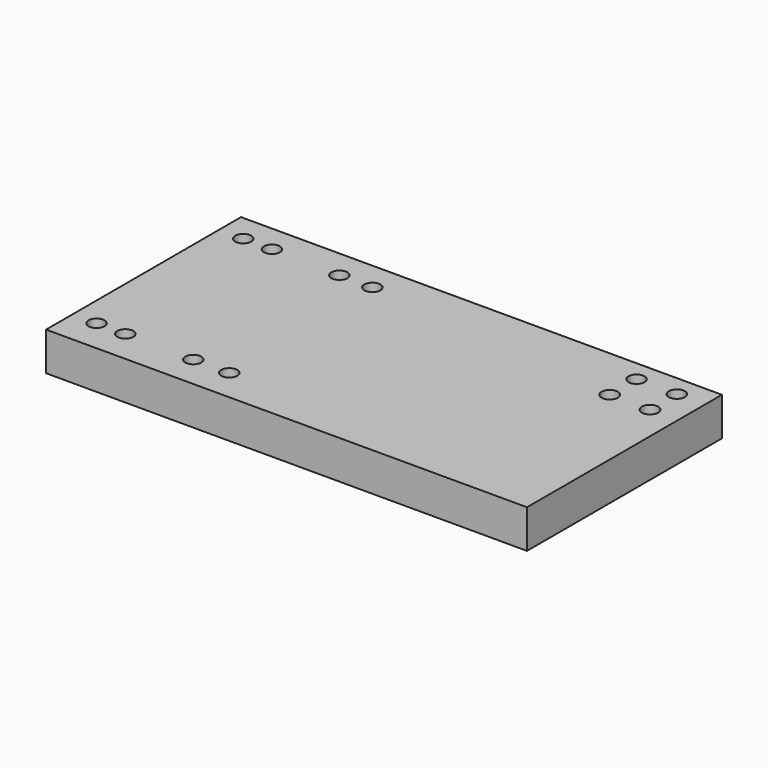
from build123d import *

# Parameters (mm, degrees)
F0_W     = 150.0124
F0_H     = 75.9968
F0_R     = 2.5019
F0_R_2   = 2.54
F1_DEPTH = 11.9888


with BuildPart() as f1:
    # F0 (on Top) → F1 (new body)
    with BuildSketch(Plane.XY):
        with Locations((75.0062, -37.9984)):
            Rectangle(F0_W, F0_H)
        with Locations((7.521072, -65.72298)):
            Circle(F0_R, mode=Mode.SUBTRACT)
        with Locations((16.49864, -65.72298)):
            Circle(F0_R, mode=Mode.SUBTRACT)
        with Locations((37.876621, -65.956518)):
            Circle(F0_R, mode=Mode.SUBTRACT)
        with Locations((49.086731, -65.956518)):
            Circle(F0_R, mode=Mode.SUBTRACT)
        with Locations((7.521072, -8.551434)):
            Circle(F0_R, mode=Mode.SUBTRACT)
        with Locations((16.49864, -8.551434)):
            Circle(F0_R, mode=Mode.SUBTRACT)
        with Locations((37.876621, -8.971782)):
            Circle(F0_R, mode=Mode.SUBTRACT)
        with Locations((48.152555, -8.971782)):
            Circle(F0_R, mode=Mode.SUBTRACT)
        with Locations((128.65755, -17.067268)):
            Circle(F0_R_2, mode=Mode.SUBTRACT)
        with Locations((141.243249, -17.067268)):
            Circle(F0_R_2, mode=Mode.SUBTRACT)
        with Locations((128.65755, -6.598288)):
            Circle(F0_R, mode=Mode.SUBTRACT)
        with Locations((141.243249, -6.598288)):
            Circle(F0_R, mode=Mode.SUBTRACT)
    extrude(amount=F1_DEPTH)


solid = f1.part
